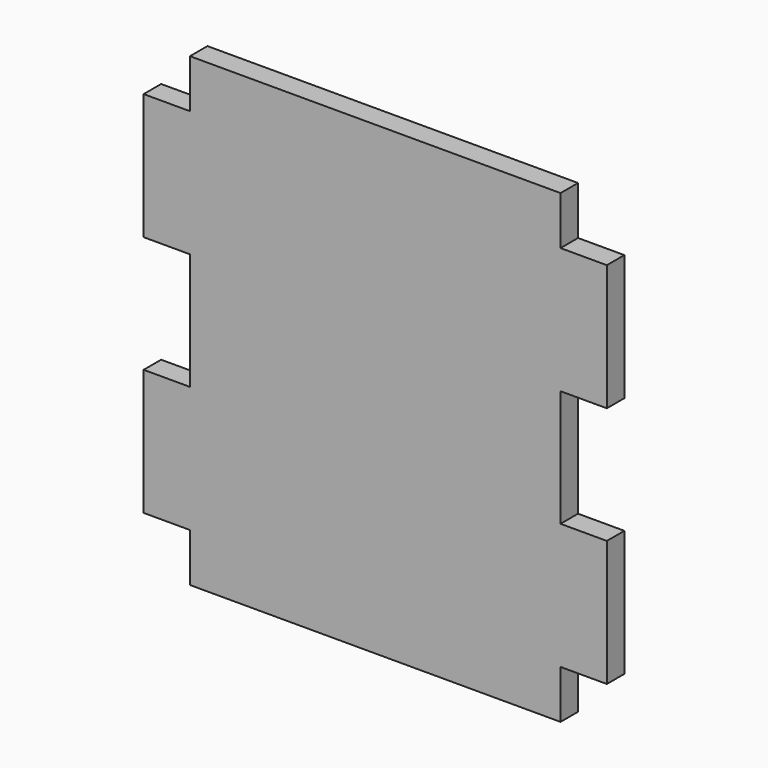
from build123d import *

# Parameters (mm, degrees)
F0_W     = 3.302
F0_H     = 17.272
F0_W_2   = 6.35
F1_DEPTH = 3


with BuildPart() as f1:
    # F0 (on Front) → F1 (new body)
    with BuildSketch(Plane.XZ):
        Polygon((-25.4, -31.9112605834), (25.4, -31.9112605834), (25.4, -25.273), (25.4, -8.001), (25.4, 8.001), (25.4, 25.273), (25.4, 31.9112605834), (-25.4, 31.9112605834), (-25.4, 25.273), (-25.4, 8.001), (-25.4, -8.001), (-25.4, -25.273), align=None)
        with Locations((-19.939, -16.637)):
            Rectangle(F0_W, F0_H, mode=Mode.SUBTRACT)
        with Locations((19.939, -16.637)):
            Rectangle(F0_W, F0_H, mode=Mode.SUBTRACT)
        with Locations((-19.939, 16.637)):
            Rectangle(F0_W, F0_H, mode=Mode.SUBTRACT)
        with Locations((19.939, 16.637)):
            Rectangle(F0_W, F0_H, mode=Mode.SUBTRACT)
        with Locations((-28.575, -16.637)):
            Rectangle(F0_W_2, F0_H)
        with Locations((-28.575, 16.637)):
            Rectangle(F0_W_2, F0_H)
        with Locations((28.575, 16.637)):
            Rectangle(F0_W_2, F0_H)
        with Locations((28.575, -16.637)):
            Rectangle(F0_W_2, F0_H)
        with Locations((-19.939, 16.637)):
            Rectangle(F0_W, F0_H)
        with Locations((19.939, 16.637)):
            Rectangle(F0_W, F0_H)
        with Locations((19.939, -16.637)):
            Rectangle(F0_W, F0_H)
        with Locations((-19.939, -16.637)):
            Rectangle(F0_W, F0_H)
    extrude(amount=F1_DEPTH)


solid = f1.part
